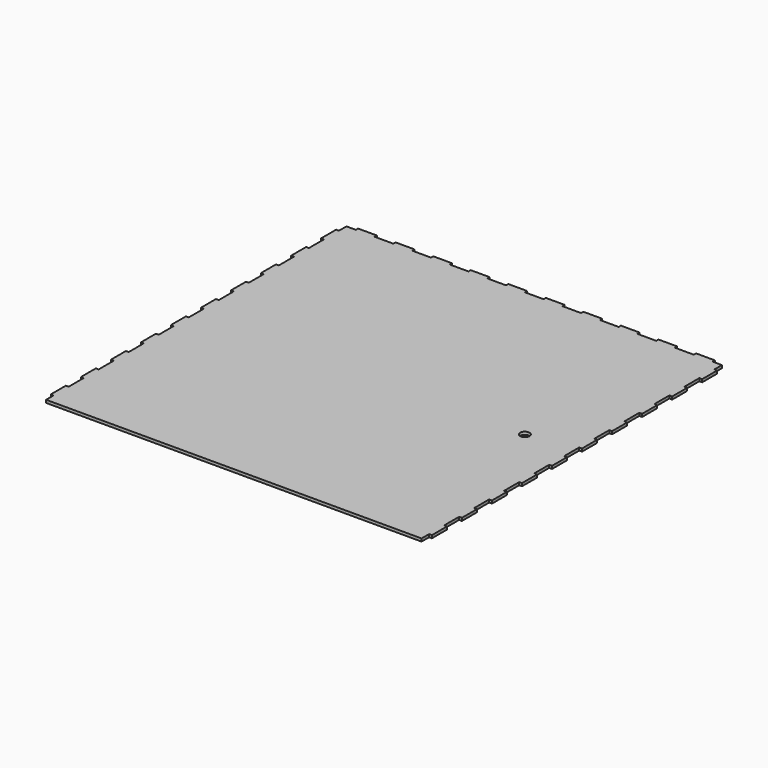
from build123d import *

# Parameters (mm, degrees)
F0_W     = 400
F0_H     = 400
F1_DEPTH = 3
F2_W     = 20
F2_H     = 3
F2_W_2   = 3
F2_H_2   = 20
F3_DEPTH = 3
F4_R     = 5
F5_DEPTH = 25
F6_W     = 380
F6_H     = 3
F7_DEPTH = 25


with BuildPart() as f1:
    # F0 (on Top) → F1 (new body)
    with BuildSketch(Plane.XY):
        Rectangle(F0_W, F0_H)
    extrude(amount=F1_DEPTH)

    # F2 (on face) → F3 (join, through all)
    with BuildSketch(Plane.XY.offset(3)):
        with Locations((-180, -201.5)):
            Rectangle(F2_W, F2_H)
        with Locations((-140, -201.5)):
            Rectangle(F2_W, F2_H)
        with Locations((-100, -201.5)):
            Rectangle(F2_W, F2_H)
        with Locations((-60, -201.5)):
            Rectangle(F2_W, F2_H)
        with Locations((-20, -201.5)):
            Rectangle(F2_W, F2_H)
        with Locations((20, -201.5)):
            Rectangle(F2_W, F2_H)
        with Locations((60, -201.5)):
            Rectangle(F2_W, F2_H)
        with Locations((100, -201.5)):
            Rectangle(F2_W, F2_H)
        with Locations((140, -201.5)):
            Rectangle(F2_W, F2_H)
        with Locations((180, -201.5)):
            Rectangle(F2_W, F2_H)
        with Locations((201.5, 100)):
            Rectangle(F2_W_2, F2_H_2)
        with Locations((201.5, 180)):
            Rectangle(F2_W_2, F2_H_2)
        with Locations((201.5, 20)):
            Rectangle(F2_W_2, F2_H_2)
        with Locations((201.5, 140)):
            Rectangle(F2_W_2, F2_H_2)
        with Locations((201.5, -20)):
            Rectangle(F2_W_2, F2_H_2)
        with Locations((201.5, 60)):
            Rectangle(F2_W_2, F2_H_2)
        with Locations((201.5, -60)):
            Rectangle(F2_W_2, F2_H_2)
        with Locations((201.5, -180)):
            Rectangle(F2_W_2, F2_H_2)
        with Locations((201.5, -140)):
            Rectangle(F2_W_2, F2_H_2)
        with Locations((201.5, -100)):
            Rectangle(F2_W_2, F2_H_2)
        with Locations((-100, 201.5)):
            Rectangle(F2_W, F2_H)
        with Locations((-180, 201.5)):
            Rectangle(F2_W, F2_H)
        with Locations((-20, 201.5)):
            Rectangle(F2_W, F2_H)
        with Locations((-140, 201.5)):
            Rectangle(F2_W, F2_H)
        with Locations((20, 201.5)):
            Rectangle(F2_W, F2_H)
        with Locations((-60, 201.5)):
            Rectangle(F2_W, F2_H)
        with Locations((60, 201.5)):
            Rectangle(F2_W, F2_H)
        with Locations((180, 201.5)):
            Rectangle(F2_W, F2_H)
        with Locations((140, 201.5)):
            Rectangle(F2_W, F2_H)
        with Locations((100, 201.5)):
            Rectangle(F2_W, F2_H)
        with Locations((-201.5, -100)):
            Rectangle(F2_W_2, F2_H_2)
        with Locations((-201.5, -180)):
            Rectangle(F2_W_2, F2_H_2)
        with Locations((-201.5, -20)):
            Rectangle(F2_W_2, F2_H_2)
        with Locations((-201.5, -140)):
            Rectangle(F2_W_2, F2_H_2)
        with Locations((-201.5, 20)):
            Rectangle(F2_W_2, F2_H_2)
        with Locations((-201.5, -60)):
            Rectangle(F2_W_2, F2_H_2)
        with Locations((-201.5, 60)):
            Rectangle(F2_W_2, F2_H_2)
        with Locations((-201.5, 180)):
            Rectangle(F2_W_2, F2_H_2)
        with Locations((-201.5, 140)):
            Rectangle(F2_W_2, F2_H_2)
        with Locations((-201.5, 100)):
            Rectangle(F2_W_2, F2_H_2)
    extrude(amount=-F3_DEPTH)

    # F4 (on face) → F5 (cut)
    with BuildSketch(Plane.XY.offset(3)):
        with Locations((150, 0)):
            Circle(F4_R)
    extrude(amount=-F5_DEPTH, mode=Mode.SUBTRACT)

    # F6 (on face) → F7 (cut)
    with BuildSketch(Plane.XY.offset(3)):
        with Locations((0, -201.5)):
            Rectangle(F6_W, F6_H)
    extrude(amount=-F7_DEPTH, mode=Mode.SUBTRACT)


solid = f1.part
